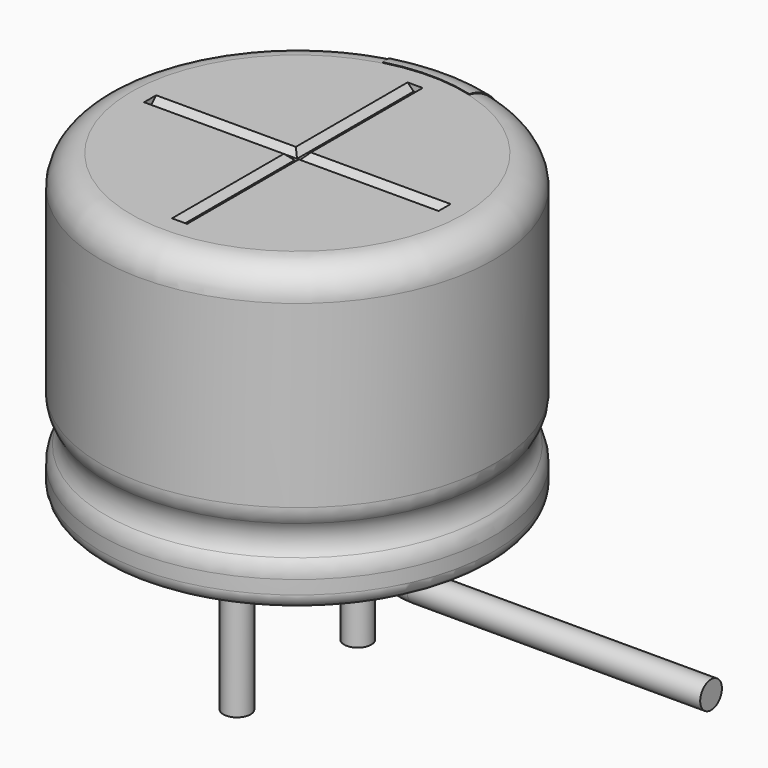
from build123d import *

# Parameters (mm, degrees)
SKETCH003_R         = 0.225
REVOLUTION001_ANGLE = -30
SKETCH015_W         = 0.25
SKETCH015_H         = 0.5
POCKET002_DEPTH     = 3.261
LINEARPATTERN_COUNT = 3
LINEARPATTERN_PITCH = 1.25
SKETCH010_R         = 0.225
PAD002_DEPTH        = 2.6
SKETCH013_R         = 2.75
PAD_DEPTH           = 0.5
POCKET001_DEPTH     = 2.4375
POLARPATTERN_COUNT  = 3
POLARPATTERN_ANGLE  = 180
SKETCH012_R         = 2.75
POCKET_DEPTH        = 0.5


with BuildPart() as obj1:
    # AdditivePipe: sweep along a path in Sketch004
    with BuildLine(Plane.XZ) as additivepipe_path:
        Line((0, 0), (0, -0.5))
        ThreePointArc((0, -0.5), (0.292893, -1.207107), (1, -1.5))
        Line((1, -1.5), (5.85, -1.5))
    # Sketch003 (on ShapeBinder) → AdditivePipe (sweep)
    with BuildSketch(Plane(origin=(0, 0, 0), x_dir=(1, 0, 0), z_dir=(0, 0, -1))):
        with Locations((0, 1.25)):
            Circle(SKETCH003_R)
    sweep(path=additivepipe_path.line)


with BuildPart() as obj1_1:
    # Body003 placement: moved
    add(obj1.part.moved(Location((0, 2.5, 0))))


with BuildPart() as polaritymarking:
    # Sketch005 → Revolution001 (revolve)
    with BuildSketch(Plane(origin=(0, 0, 0), x_dir=(-0.258819, 0.965926, 0), z_dir=(0.965926, 0.258819, 0))):
        with BuildLine():
            Line((2.76, 0.25), (2.76, 5.01))
            ThreePointArc((2.76, 5.01), (3.113553, 4.863553), (3.26, 4.51))
            Line((3.26, 4.51), (3.26, 1.523941))
            ThreePointArc((3.26, 1.523941), (3.239134, 1.381006), (3.178278, 1.25))
            ThreePointArc((3.178278, 1.25), (3.103698, 1), (3.178278, 0.75))
            ThreePointArc((3.178278, 0.75), (3.239134, 0.618994), (3.26, 0.476059))
            Line((3.26, 0.476059), (3.26, 0.25))
            ThreePointArc((3.26, 0.25), (3.01, 0), (2.76, 0.25))
        make_face()
    revolve(axis=Axis((0, 0, 0), (0, 0, 1)), revolution_arc=REVOLUTION001_ANGLE)

    # Sketch015 → Pocket002 (cut, through all)
    with BuildSketch(Plane.XZ):
        with Locations((0, 1.75)):
            Rectangle(SKETCH015_W, SKETCH015_H)
    pocket002 = extrude(amount=-POCKET002_DEPTH, mode=Mode.SUBTRACT)

    # LinearPattern: Pocket002 ×3
    with Locations(*[(0, 0, i * LINEARPATTERN_PITCH) for i in range(1, LINEARPATTERN_COUNT)]):
        add(pocket002, mode=Mode.SUBTRACT)


with BuildPart() as obj2:
    # Sketch010 → Pad002 (new body)
    with BuildSketch(Plane(origin=(0, 1.25, 0), x_dir=(1, 0, 0), z_dir=(0, 0, 1))):
        Circle(SKETCH010_R)
    extrude(amount=-PAD002_DEPTH)


with BuildPart() as obj3:
    # Body007 base: copy of obj2
    add(obj2.part)


with BuildPart() as obj3_1:
    # Body007 placement: moved
    add(obj3.part.moved(Location((0, -2.5, 0))))


with BuildPart() as housingtop:
    # Sketch013 (on ShapeBinder) → Pad (new body)
    with BuildSketch(Plane.XY.offset(4.5)):
        Circle(SKETCH013_R)
    extrude(amount=PAD_DEPTH)

    # Sketch014 → Pocket001 (cut, symmetric)
    with BuildSketch(Plane.XZ):
        Polygon((-0.125, 5), (0.125, 5), (0.025, 4.9), (-0.025, 4.9), align=None)
    pocket001 = extrude(amount=POCKET001_DEPTH, both=True, mode=Mode.SUBTRACT)

    # PolarPattern: Pocket001 ×3 about axis
    polarpattern_axis = Axis((0, 0, 0), (0, 0, 1))
    for i in range(1, POLARPATTERN_COUNT):
        add(pocket001.rotate(polarpattern_axis, i * POLARPATTERN_ANGLE / (POLARPATTERN_COUNT - 1)), mode=Mode.SUBTRACT)


with BuildPart() as fusion:
    # Sketch → Revolution (revolve)
    with BuildSketch(Plane.XZ):
        with BuildLine():
            Line((0, 5), (2.75, 5))
            ThreePointArc((3.25, 4.5), (3.103553, 4.853553), (2.75, 5))
            Line((3.25, 4.5), (3.25, 1.523941))
            ThreePointArc((3.168278, 1.25), (3.229134, 1.381006), (3.25, 1.523941))
            ThreePointArc((3.168278, 1.25), (3.093698, 1), (3.168278, 0.75))
            ThreePointArc((3.25, 0.476059), (3.229134, 0.618994), (3.168278, 0.75))
            Line((3.25, 0.476059), (3.25, 0.25))
            ThreePointArc((3, 0), (3.176777, 0.073223), (3.25, 0.25))
            Line((0, 0), (3, 0))
            Line((0, 5), (0, 0))
        make_face()
    revolve(axis=Axis((0, 0, 0), (0, 0, 1)))

    # Sketch012 → Pocket (cut)
    with BuildSketch(Plane.XY.offset(5)):
        Circle(SKETCH012_R)
    extrude(amount=-POCKET_DEPTH, mode=Mode.SUBTRACT)

    # Fusion: union PolarityMarking, obj2, obj3, HousingTop
    add(polaritymarking.part)
    add(obj2.part)
    add(obj3_1.part)
    add(housingtop.part)


solid = Compound([obj1_1.part, fusion.part])
